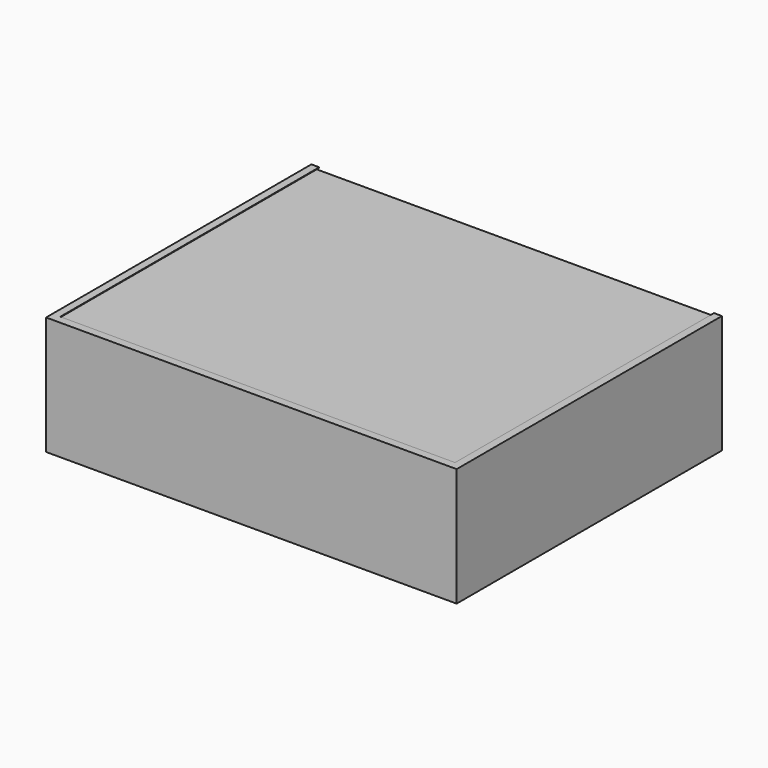
from build123d import *

# Parameters (mm, degrees)
SKETCH001_W     = 104
SKETCH001_H     = 84
PAD001_DEPTH    = 30
SKETCH_W        = 100
SKETCH_H        = 80
POCKET_DEPTH    = 28
SKETCH008_R     = 2
SKETCH008_R_2   = 0.5
PAD002_DEPTH    = 4
SKETCH009_R     = 4
POCKET003_DEPTH = 5
POCKET004_DEPTH = 82
SKETCH012_W     = 15.665577
SKETCH012_H     = 6.838154
POCKET005_DEPTH = 5
PAD_DEPTH       = 82


with BuildPart() as body:
    # Sketch001 → Pad001 (new body)
    with BuildSketch(Plane.XY):
        Rectangle(SKETCH001_W, SKETCH001_H)
    extrude(amount=PAD001_DEPTH)

    # Sketch (on Face6 of Pad001) → Pocket (cut)
    with BuildSketch(Plane.XY.offset(30)):
        Rectangle(SKETCH_W, SKETCH_H)
    extrude(amount=-POCKET_DEPTH, mode=Mode.SUBTRACT)

    # Sketch008 (on Face11 of Pocket) → Pad002 (join)
    with BuildSketch(Plane.XY.offset(2)):
        with Locations((-15, 34.888428)):
            Circle(SKETCH008_R)
        with Locations((-15, 34.888428)):
            Circle(SKETCH008_R_2, mode=Mode.SUBTRACT)
        with Locations((30, 34.888428)):
            Circle(SKETCH008_R)
        with Locations((30, 34.888428)):
            Circle(SKETCH008_R_2, mode=Mode.SUBTRACT)
        with Locations((30, 14.888428)):
            Circle(SKETCH008_R)
        with Locations((30, 14.888428)):
            Circle(SKETCH008_R_2, mode=Mode.SUBTRACT)
        with Locations((-15, 14.888428)):
            Circle(SKETCH008_R)
        with Locations((-15, 14.888428)):
            Circle(SKETCH008_R_2, mode=Mode.SUBTRACT)
        with Locations((-43.149998, 35.856205)):
            Circle(SKETCH008_R)
        with Locations((-43.149998, 35.856205)):
            Circle(SKETCH008_R_2, mode=Mode.SUBTRACT)
        with Locations((-27.909998, 35.856205)):
            Circle(SKETCH008_R)
        with Locations((-27.909998, 35.856205)):
            Circle(SKETCH008_R_2, mode=Mode.SUBTRACT)
        with Locations((-27.909998, -4.783795)):
            Circle(SKETCH008_R)
        with Locations((-27.909998, -4.783795)):
            Circle(SKETCH008_R_2, mode=Mode.SUBTRACT)
        with Locations((-43.149998, -4.783795)):
            Circle(SKETCH008_R)
        with Locations((-43.149998, -4.783795)):
            Circle(SKETCH008_R_2, mode=Mode.SUBTRACT)
        with Locations((-19.635076, -17.402302)):
            Circle(SKETCH008_R)
        with Locations((-19.635076, -17.402302)):
            Circle(SKETCH008_R_2, mode=Mode.SUBTRACT)
        with Locations((44.727491, -26.483047)):
            Circle(SKETCH008_R)
        with Locations((44.727491, -26.483047)):
            Circle(SKETCH008_R_2, mode=Mode.SUBTRACT)
    extrude(amount=PAD002_DEPTH)

    # Sketch009 (on Face3 of Pad002) → Pocket003 (cut)
    with BuildSketch(Plane(origin=(0, 42, 0), x_dir=(-1, 0, 0), z_dir=(0, 1, 0))):
        with Locations((-43.484365, 8.81427)):
            Circle(SKETCH009_R)
        with Locations((-4.469102, 8.81427)):
            Circle(SKETCH009_R)
        with Locations((-43.484365, 21.985901)):
            Circle(SKETCH009_R)
    extrude(amount=-POCKET003_DEPTH, mode=Mode.SUBTRACT)

    # Sketch010 (on Face3 of Pocket003) → Pocket004 (cut)
    with BuildSketch(Plane(origin=(0, 42, 0), x_dir=(-1, 0, 0), z_dir=(0, 1, 0))):
        Polygon((-50, 30), (-51, 28), (51, 28), (50, 30), align=None)
    extrude(amount=-POCKET004_DEPTH, mode=Mode.SUBTRACT)

    # Sketch012 (on Face3 of Pocket004) → Pocket005 (cut)
    with BuildSketch(Plane(origin=(0, 42, 0), x_dir=(-1, 0, 0), z_dir=(0, 1, 0))):
        with Locations((34.523803, 9.546056)):
            Rectangle(SKETCH012_W, SKETCH012_H)
    extrude(amount=-POCKET005_DEPTH, mode=Mode.SUBTRACT)


with BuildPart() as body001:
    # Sketch011 → Pad (new body)
    with BuildSketch(Plane.XZ):
        Polygon((-49.841592, 21.99121), (-50.841592, 19.99121), (51.158408, 19.99121), (50.158408, 21.99121), align=None)
    extrude(amount=PAD_DEPTH)


with BuildPart() as body001_1:
    # Body001 placement: moved
    add(body001.part.moved(Location((0, 41, 8))))


solid = Compound([body.part, body001_1.part])
